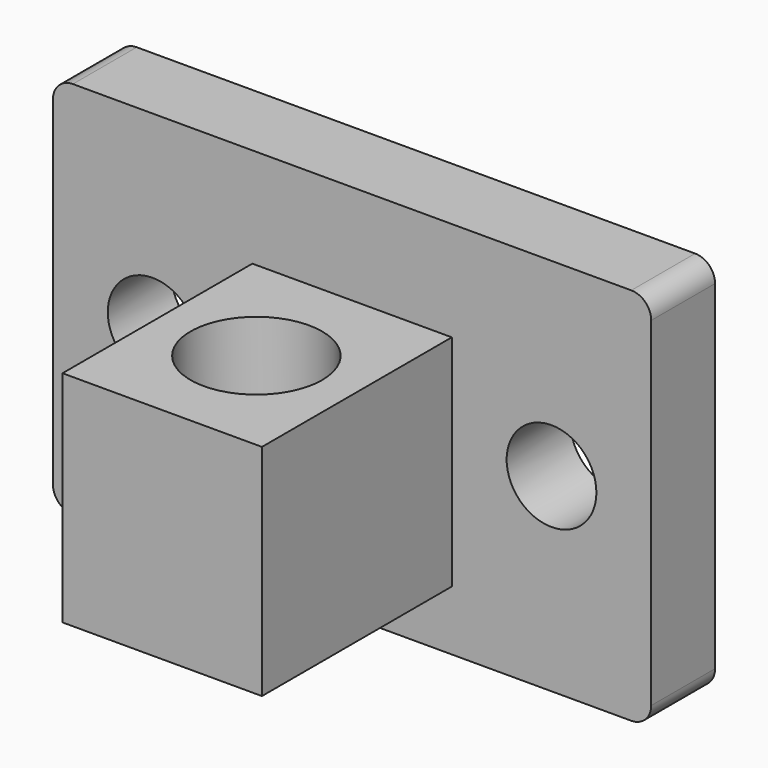
from build123d import *

# Parameters (mm, degrees)
F0_W     = 30
F0_H     = 19
F1_DEPTH = 4
F2_R     = 2.25
F3_DEPTH = 25
F4_W     = 10
F4_H     = 11
F5_DEPTH = 11.9
F6_R     = 3.3
F7_DEPTH = 25
F8_R     = 1


with BuildPart() as f1:
    # F0 (on Front) → F1 (new body)
    with BuildSketch(Plane.XZ):
        with Locations((15, 9.5)):
            Rectangle(F0_W, F0_H)
    extrude(amount=F1_DEPTH)

    # F2 (on face) → F3 (cut)
    with BuildSketch(Plane.XZ.offset(4)):
        with Locations((25, 9.5)):
            Circle(F2_R)
        with Locations((5, 9.5)):
            Circle(F2_R)
    extrude(amount=-F3_DEPTH, mode=Mode.SUBTRACT)

    # F4 (on face) → F5 (join)
    with BuildSketch(Plane.XZ.offset(4)):
        with Locations((15, 8.5)):
            Rectangle(F4_W, F4_H)
    extrude(amount=F5_DEPTH)

    # F6 (on face) → F7 (cut)
    with BuildSketch(Plane.XY.offset(14)):
        with Locations((15, -10)):
            Circle(F6_R)
    extrude(amount=-F7_DEPTH, mode=Mode.SUBTRACT)

    # F8
    f8_edges = [f1.edges().sort_by_distance(p)[0] for p in [
        (0, -2, 19),
        (30, -2, 19),
        (30, -2, 0),
        (0, -2, 0),
    ]]
    fillet(f8_edges, radius=F8_R)


solid = f1.part
